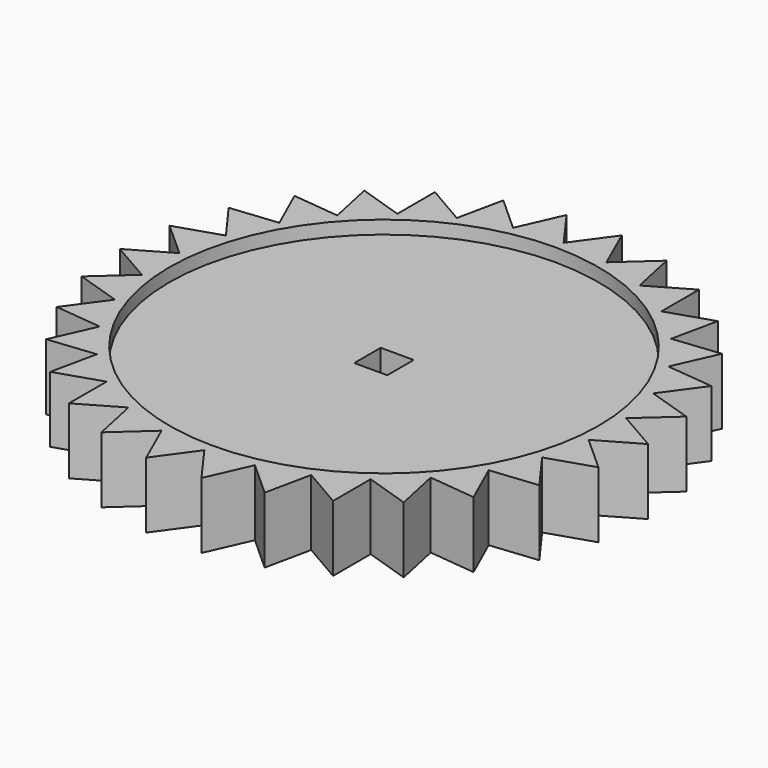
from build123d import *

# Parameters (mm, degrees)
F0_W     = 2.5
F0_H     = 2.5
F1_DEPTH = 5
F2_R     = 16.25
F2_W     = 2.5
F2_H     = 2.5
F3_DEPTH = 1
F4_R     = 16.25
F4_W     = 2.5
F4_H     = 2.5
F5_DEPTH = 1
F6_R     = 2.5
F6_W     = 2.5
F6_H     = 2.5
F7_DEPTH = 2.5


with BuildPart() as f1:
    # F0 (on Top) → F1 (new body)
    with BuildSketch(Plane.XY):
        Polygon((16.9110578052, -1.7774237981), (20, 0), (16.9110578052, 1.7774237981), (19.5629520147, 4.1582338164), (16.1719634308, 5.2545894454), (18.2709091529, 8.1347328615), (14.7260766529, 8.5021043196), (16.1803398875, 11.7557050458), (12.6365896616, 11.3780364374), (13.3826121272, 14.8628965095), (9.9948230651, 13.7566937651), (10, 17.3205080757), (6.9162347401, 15.5341175632), (6.1803398875, 19.0211303259), (3.5353737692, 16.6326258829), (2.0905692654, 19.8904379074), (0, 17.0042086393), (-2.0905692654, 19.8904379074), (-3.5353737692, 16.6326258829), (-6.1803398875, 19.0211303259), (-6.9162347401, 15.5341175632), (-10, 17.3205080757), (-9.9948230651, 13.7566937651), (-13.3826121272, 14.8628965095), (-12.6365896616, 11.3780364374), (-16.1803398875, 11.7557050458), (-14.7260766529, 8.5021043196), (-18.2709091529, 8.1347328615), (-16.1719634308, 5.2545894454), (-19.5629520147, 4.1582338164), (-16.9110578052, 1.7774237981), (-20, 0), (-16.9110578052, -1.7774237981), (-19.5629520147, -4.1582338164), (-16.1719634308, -5.2545894454), (-18.2709091529, -8.1347328615), (-14.7260766529, -8.5021043196), (-16.1803398875, -11.7557050458), (-12.6365896616, -11.3780364374), (-13.3826121272, -14.8628965095), (-9.9948230651, -13.7566937651), (-10, -17.3205080757), (-6.9162347401, -15.5341175632), (-6.1803398875, -19.0211303259), (-3.5353737692, -16.6326258829), (-2.0905692654, -19.8904379074), (0, -17.0042086393), (2.0905692654, -19.8904379074), (3.5353737692, -16.6326258829), (6.1803398875, -19.0211303259), (6.9162347401, -15.5341175632), (10, -17.3205080757), (9.9948230651, -13.7566937651), (13.3826121272, -14.8628965095), (12.6365896616, -11.3780364374), (16.1803398875, -11.7557050458), (14.7260766529, -8.5021043196), (18.2709091529, -8.1347328615), (16.1719634308, -5.2545894454), (19.5629520147, -4.1582338164), align=None)
        Rectangle(F0_W, F0_H, mode=Mode.SUBTRACT)
    extrude(amount=F1_DEPTH)

    # F2 (on face) → F3 (cut)
    with BuildSketch(Plane(origin=(0, 0, 0), x_dir=(1, 0, 0), z_dir=(0, 0, -1))):
        Circle(F2_R)
        Rectangle(F2_W, F2_H, mode=Mode.SUBTRACT)
    extrude(amount=-F3_DEPTH, mode=Mode.SUBTRACT)

    # F4 (on face) → F5 (cut)
    with BuildSketch(Plane.XY.offset(5)):
        Circle(F4_R)
        Rectangle(F4_W, F4_H, mode=Mode.SUBTRACT)
    extrude(amount=-F5_DEPTH, mode=Mode.SUBTRACT)

    # F6 (on face) → F7 (join)
    with BuildSketch(Plane(origin=(0, 0, 1), x_dir=(1, 0, 0), z_dir=(0, 0, -1))):
        Circle(F6_R)
        Rectangle(F6_W, F6_H, mode=Mode.SUBTRACT)
    extrude(amount=F7_DEPTH)


solid = f1.part
